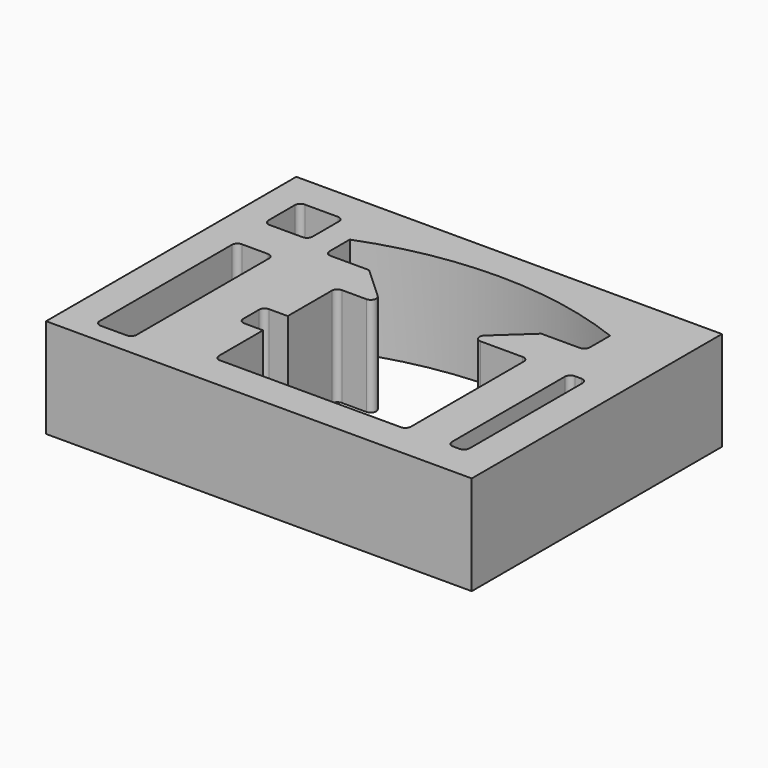
from build123d import *

# Parameters (mm, degrees)
F0_W     = 245
F0_H     = 180
F1_DEPTH = 57.15
F3_DEPTH = 57.15


with BuildPart() as f1:
    # F0 (on Top) → F1 (new body)
    with BuildSketch(Plane.XY):
        Rectangle(F0_W, F0_H)
    extrude(amount=F1_DEPTH)

    # F2 (on face) → F3 (cut, through all)
    with BuildSketch(Plane.XY.offset(57.15)):
        with BuildLine():
            Line((-83.564057, 71.289999), (-102.614057, 71.289999))
            ThreePointArc((-102.614057, 71.289999), (-104.859121, 70.360063), (-105.789057, 68.114999))
            Line((-105.789057, 68.114999), (-105.789057, 49.064999))
            ThreePointArc((-105.789057, 49.064999), (-104.859121, 46.819934), (-102.614057, 45.889999))
            Line((-102.614057, 45.889999), (-83.564057, 45.889999))
            ThreePointArc((-83.564057, 45.889999), (-81.318993, 46.819934), (-80.389057, 49.064999))
            Line((-80.389057, 49.064999), (-80.389057, 68.114999))
            ThreePointArc((-80.389057, 68.114999), (-81.318993, 70.360063), (-83.564057, 71.289999))
        make_face()
        with BuildLine():
            Line((-85.596057, 23.44737), (-100.582057, 23.44737))
            ThreePointArc((-100.582057, 23.44737), (-102.827121, 22.517434), (-103.757057, 20.27237))
            Line((-103.757057, 20.27237), (-103.757057, -74.97763))
            ThreePointArc((-103.757057, -74.97763), (-102.827121, -77.222694), (-100.582057, -78.15263))
            Line((-100.582057, -78.15263), (-85.596057, -78.15263))
            ThreePointArc((-85.596057, -78.15263), (-83.350993, -77.222694), (-82.421057, -74.97763))
            Line((-82.421057, -74.97763), (-82.421057, 20.27237))
            ThreePointArc((-82.421057, 20.27237), (-83.350993, 22.517434), (-85.596057, 23.44737))
        make_face()
        with BuildLine():
            Line((100.275001, 16.679999), (96.465001, 16.679999))
            ThreePointArc((96.465001, 16.679999), (94.219937, 15.750063), (93.290001, 13.504999))
            Line((93.290001, 13.504999), (93.290001, -67.775001))
            ThreePointArc((93.290001, -67.775001), (94.219937, -70.020066), (96.465001, -70.950001))
            Line((96.465001, -70.950001), (100.275001, -70.950001))
            ThreePointArc((100.275001, -70.950001), (102.520065, -70.020066), (103.450001, -67.775001))
            Line((103.450001, -67.775001), (103.450001, 13.504999))
            ThreePointArc((103.450001, 13.504999), (102.520065, 15.750063), (100.275001, 16.679999))
        make_face()
        with BuildLine():
            ThreePointArc((-40.80326, -67.774997), (-39.873324, -70.020061), (-37.62826, -70.949997))
            Line((-37.62826, -70.949997), (66.51174, -70.949997))
            ThreePointArc((66.51174, -70.949997), (68.756804, -70.020061), (69.68674, -67.774997))
            Line((69.68674, -67.774997), (69.68674, 13.505003))
            ThreePointArc((69.68674, 13.505003), (68.756804, 15.750067), (66.51174, 16.680003))
            Line((66.51174, 16.680003), (42.247281, 16.680003))
            ThreePointArc((42.247281, 16.680003), (39.290263, 18.698857), (40.093741, 22.188004))
            Line((40.093741, 22.188004), (58.89174, 39.540003))
            Line((58.89174, 39.540003), (-40.16826, 39.540003))
            Line((-40.16826, 39.540003), (-21.370261, 22.188004))
            ThreePointArc((-21.370261, 22.188004), (-20.566783, 18.698857), (-23.5238, 16.680003))
            Line((-23.5238, 16.680003), (-37.62826, 16.680003))
            ThreePointArc((-37.62826, 16.680003), (-39.873324, 15.750067), (-40.80326, 13.505003))
            Line((-40.80326, 13.505003), (-40.80326, -13.164997))
            Line((-40.80326, -13.164997), (-40.80326, -18.244997))
            Line((-40.80326, -18.244997), (-40.80326, -36.024997))
            Line((-40.80326, -36.024997), (-40.80326, -41.104997))
            Line((-40.80326, -41.104997), (-40.80326, -67.774997))
        make_face()
        with BuildLine():
            Line((-51.571213, -36.024997), (-40.80326, -36.024997))
            Line((-40.80326, -36.024997), (-40.80326, -18.244997))
            Line((-40.80326, -18.244997), (-51.571213, -18.244997))
            ThreePointArc((-51.571213, -18.244997), (-53.816277, -19.174933), (-54.746213, -21.419997))
            Line((-54.746213, -21.419997), (-54.746213, -32.849997))
            ThreePointArc((-54.746213, -32.849997), (-53.816277, -35.095061), (-51.571213, -36.024997))
        make_face()
        with BuildLine():
            Line((-40.16826, 39.540003), (58.89174, 39.540003))
            Line((58.89174, 39.540003), (81.11674, 39.540003))
            ThreePointArc((81.11674, 39.540003), (83.361804, 40.469939), (84.29174, 42.715003))
            Line((84.29174, 42.715003), (84.29174, 57.320003))
            Line((84.29174, 57.320003), (-65.56826, 57.320003))
            Line((-65.56826, 57.320003), (-65.56826, 42.715003))
            ThreePointArc((-65.56826, 42.715003), (-64.638324, 40.469939), (-62.39326, 39.540003))
            Line((-62.39326, 39.540003), (-40.16826, 39.540003))
        make_face()
        with BuildLine():
            Line((-65.56826, 57.320003), (84.29174, 57.320003))
            ThreePointArc((84.29174, 57.320003), (9.36174, 71.290003), (-65.56826, 57.320003))
        make_face()
    extrude(amount=-F3_DEPTH, mode=Mode.SUBTRACT)


solid = f1.part
